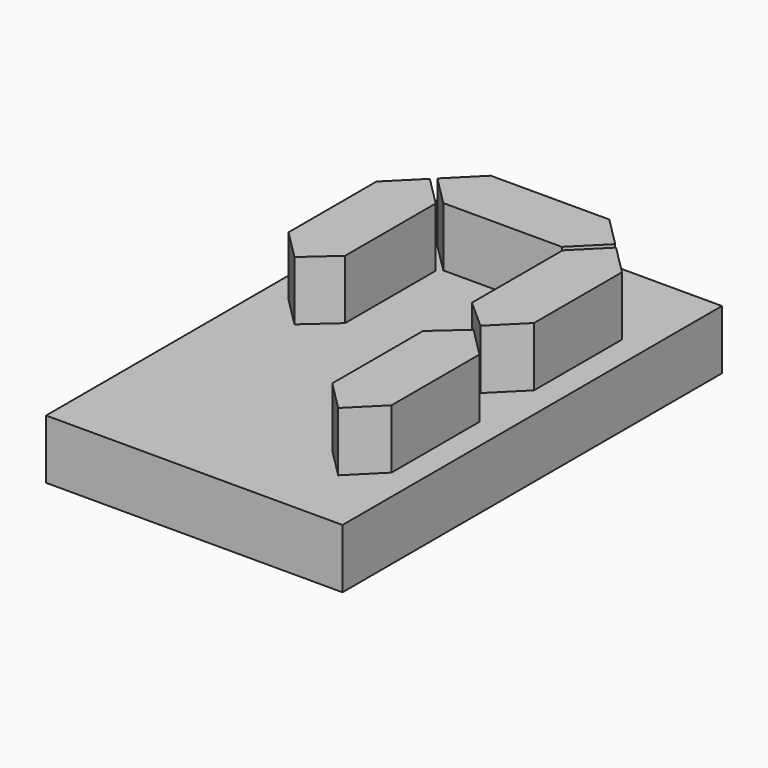
from build123d import *

# Parameters (mm, degrees)
F0_W     = 10
F0_H     = 16
F1_DEPTH = 2
F3_DEPTH = 2


with BuildPart() as f1:
    # F0 (on Top) → F1 (new body)
    with BuildSketch(Plane.XY):
        Rectangle(F0_W, F0_H)
    extrude(amount=F1_DEPTH)

    # F2 (on face) → F3 (join)
    with BuildSketch(Plane.XY.offset(2)):
        Polygon((0, 7), (-2, 7), (-3, 6), (-2, 5), (0, 5), (2, 5), (3, 6), (2, 7), align=None)
        Polygon((-2.141421, 4.858579), (-3.141421, 5.858579), (-4.141421, 4.858579), (-4.141421, 1.150722), (-3.137452, 0.145399), (-2.141421, 1.03352), align=None)
        Polygon((4.141421, 4.858579), (3.141421, 5.858579), (2.141421, 4.858579), (2.141421, 1.03352), (3.137452, 0.145399), (4.141421, 1.150722), align=None)
        Polygon((3.137452, -0.145399), (2.141421, -1.03352), (2.141421, -4.858579), (3.141421, -5.858579), (4.141421, -4.858579), (4.141421, -1.150722), align=None)
    extrude(amount=F3_DEPTH)


solid = f1.part
